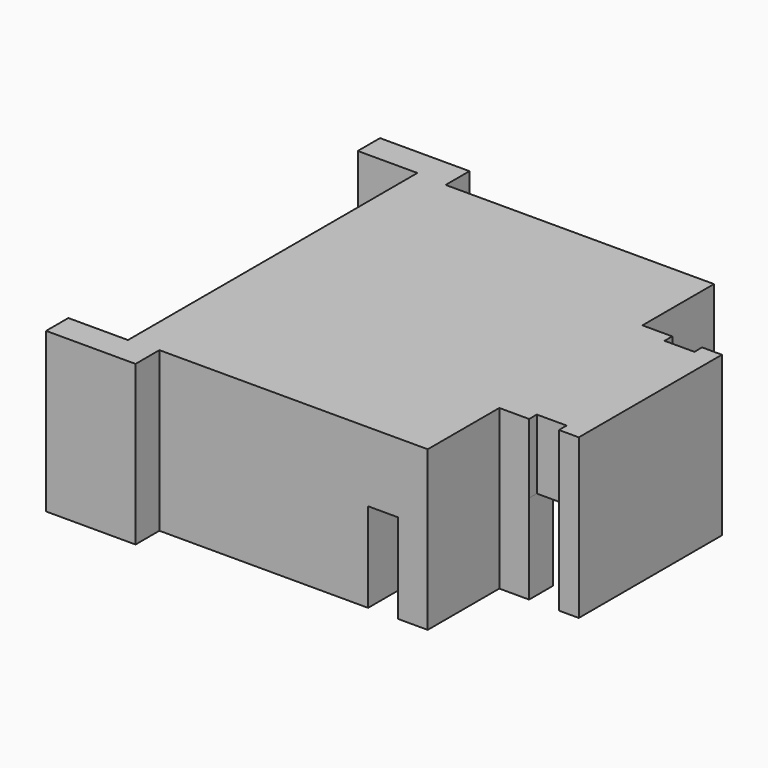
from build123d import *

# Parameters (mm, degrees)
PAD_DEPTH       = 8
SKETCH001_W     = 10
SKETCH001_H     = 10
POCKET_DEPTH    = 9.1
POCKET006_DEPTH = 4.5
SKETCH016_W     = 1.5
SKETCH016_H     = 1.5
SKETCH016_H_2   = 2.241798
POCKET007_DEPTH = 8.001


with BuildPart() as part:
    # Sketch → Pad (new body)
    with BuildSketch(Plane.XY):
        Polygon((1.5, 9), (15, 9), (15, 4.5), (19, 4.5), (19, -4.5), (15, -4.5), (15, -9), (1.5, -9), (1.5, -10.5), (-3, -10.5), (-3, 10.5), (1.5, 10.5), align=None)
    extrude(amount=PAD_DEPTH)

    # Sketch001 → Pocket (cut, symmetric)
    with BuildSketch(Plane.XZ):
        with Locations((-5, 10)):
            Rectangle(SKETCH001_W, SKETCH001_H)
    extrude(amount=POCKET_DEPTH, both=True, mode=Mode.SUBTRACT)

    # Sketch015 → Pocket006 (cut)
    with BuildSketch(Plane.XY):
        Polygon((12, 10), (13.5, 10), (13.5, 3), (16.5, 3), (16.5, 10), (18, 10), (18, -10), (16.5, -10), (16.5, -3), (13.5, -3), (13.5, -10), (12, -10), align=None)
    extrude(amount=POCKET006_DEPTH, mode=Mode.SUBTRACT)

    # Sketch016 → Pocket007 (cut, through all)
    with BuildSketch(Plane.XY):
        with Locations((17.251662, 4.766245)):
            Rectangle(SKETCH016_W, SKETCH016_H)
        with Locations((17.251662, -5.137144)):
            Rectangle(SKETCH016_W, SKETCH016_H_2)
    extrude(amount=POCKET007_DEPTH, mode=Mode.SUBTRACT)


solid = part.part
